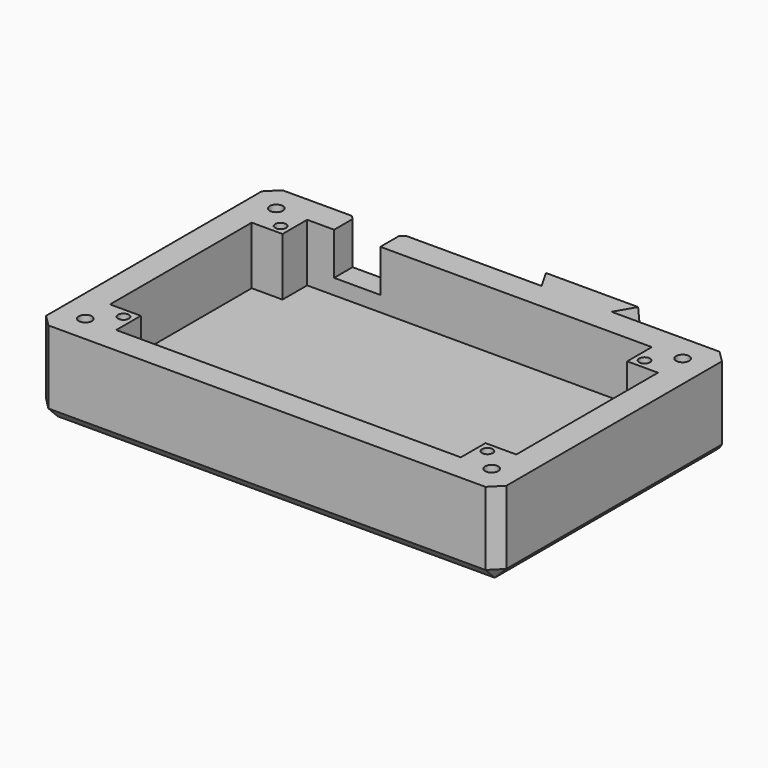
from build123d import *

# Parameters (mm, degrees)
SKETCH030_W        = 119.5
SKETCH030_H        = 76
SKETCH030_R        = 1.4
PAD009_DEPTH       = 15
SKETCH031_W        = 119.5
SKETCH031_H        = 76
PAD010_DEPTH       = 7
SKETCH032_W        = 12
SKETCH032_H        = 11
POCKET011_DEPTH    = 7
HOLE_D             = 3.4
HOLE_CBORE_D       = 6.1
HOLE_CBORE_DEPTH   = 3.4
PAD013_DEPTH       = 22
CHAMFER001_1_ANGLE = 5
CHAMFER001_1_SIZE  = 21
CHAMFER001_2_ANGLE = 5
CHAMFER001_2_SIZE  = 21
CHAMFER003_SIZE    = 3
CHAMFER004_SIZE    = 1
CHAMFER005_SIZE    = 1


with BuildPart() as part:
    # Sketch030 (on Face1 of Binder008) → Pad009 (new body)
    with BuildSketch(Plane(origin=(0, 0, -1.6), x_dir=(1, 0, 0), z_dir=(0, 0, -1))):
        with Locations((50.75, 29)):
            Rectangle(SKETCH030_W, SKETCH030_H)
        with Locations((3.5, 54.5)):
            Circle(SKETCH030_R, mode=Mode.SUBTRACT)
        with Locations((98, 54.5)):
            Circle(SKETCH030_R, mode=Mode.SUBTRACT)
        with Locations((98, 3.5)):
            Circle(SKETCH030_R, mode=Mode.SUBTRACT)
        with Locations((3.5, 3.5)):
            Circle(SKETCH030_R, mode=Mode.SUBTRACT)
        Polygon((-2, 52), (-2, 6), (6, 6), (6, -2), (95.5, -2), (95.5, 6), (103.5, 6), (103.5, 52), (95.5, 52), (95.5, 60), (6, 60), (6, 52), align=None, mode=Mode.SUBTRACT)
    extrude(amount=PAD009_DEPTH)

    # Sketch031 (on Face22 of Pad009) → Pad010 (join)
    with BuildSketch(Plane(origin=(0, 0, -16.6), x_dir=(1, 0, 0), z_dir=(0, 0, -1))):
        with Locations((50.75, 29)):
            Rectangle(SKETCH031_W, SKETCH031_H)
    extrude(amount=PAD010_DEPTH)

    # Sketch032 (on Face26 of Pad010) → Pocket011 (cut)
    with BuildSketch(Plane(origin=(0, 9, 0), x_dir=(-1, 0, 0), z_dir=(0, 1, 0))):
        with Locations((-19, -7.1)):
            Rectangle(SKETCH032_W, SKETCH032_H)
    extrude(amount=-POCKET011_DEPTH, mode=Mode.SUBTRACT)

    # Hole (through all)
    with Locations(Plane(origin=(0, 0, -23.6), x_dir=(1, 0, 0), z_dir=(0, 0, -1))):
        with Locations((-2, 60), (103.5, 60), (103.5, -2), (-2, -2)):
            CounterBoreHole(HOLE_D / 2, HOLE_CBORE_D / 2, HOLE_CBORE_DEPTH)

    # Sketch038 (on Face1 of Hole) → Pad013 (join)
    with BuildSketch(Plane.XY.offset(-1.6)):
        Polygon((81.571463, 9), (59.171468, 9), (56.284717, 14), (84.458214, 14), align=None)
    extrude(amount=-PAD013_DEPTH)

    # Chamfer001 1
    chamfer001_1_edges = [part.edges().sort_by_distance(p)[0] for p in [
        (83.014838, 11.5, -1.6),
    ]]
    chamfer001_1_side = part.faces().sort_by_distance((83.014838, 11.5, -12.6))[0]
    chamfer(chamfer001_1_edges, length=CHAMFER001_1_SIZE, angle=CHAMFER001_1_ANGLE, reference=chamfer001_1_side)

    # Chamfer001 2
    chamfer001_2_edges = [part.edges().sort_by_distance(p)[0] for p in [
        (57.728092, 11.5, -1.6),
    ]]
    chamfer001_2_side = part.faces().sort_by_distance((57.728092, 11.5, -12.6))[0]
    chamfer(chamfer001_2_edges, length=CHAMFER001_2_SIZE, angle=CHAMFER001_2_ANGLE, reference=chamfer001_2_side)

    # Chamfer003
    chamfer003_edges = [part.edges().sort_by_distance(p)[0] for p in [
        (110.5, 9, -12.6),
        (110.5, -29, -23.6),
        (110.5, -67, -12.6),
        (50.75, -67, -23.6),
        (-9, 9, -12.6),
        (-9, -29, -23.6),
        (-9, -67, -12.6),
    ]]
    chamfer(chamfer003_edges, length=CHAMFER003_SIZE)

    # Chamfer004
    chamfer004_edges = [part.edges().sort_by_distance(p)[0] for p in [
        (26.585734, 9, -23.6),
        (94.535731, 9, -23.6),
    ]]
    chamfer(chamfer004_edges, length=CHAMFER004_SIZE)

    # Chamfer005
    chamfer005_edges = [part.edges().sort_by_distance(p)[0] for p in [
        (13, 9, -7.1),
        (19, 9, -12.6),
        (25, 9, -7.1),
    ]]
    chamfer(chamfer005_edges, length=CHAMFER005_SIZE)


solid = part.part
